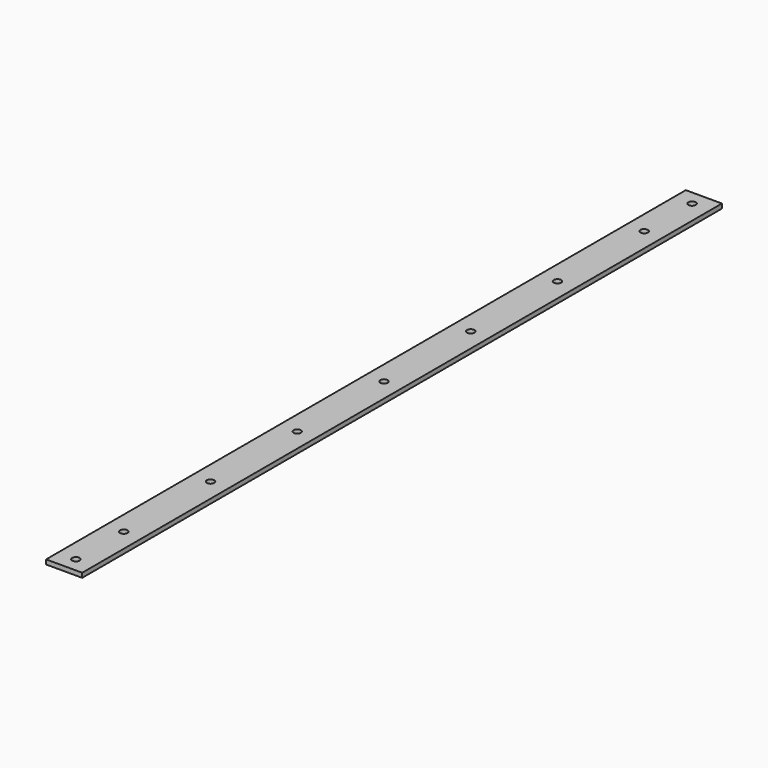
from build123d import *

# Parameters (mm, degrees)
F0_W     = 25.4
F0_H     = 3.175
F1_DEPTH = 561.975
F2_R     = 2.6162
F3_DEPTH = 3.176


with BuildPart() as f1:
    # F0 (on Front) → F1 (new body)
    with BuildSketch(Plane.XZ):
        Rectangle(F0_W, F0_H)
    extrude(amount=F1_DEPTH)

    # F2 (on face) → F3 (cut, through all)
    with BuildSketch(Plane.XY.offset(1.5875)):
        with Locations((0, -551.6626)):
            Circle(F2_R)
        with Locations((0, -509.5875)):
            Circle(F2_R)
        with Locations((0, -433.3875)):
            Circle(F2_R)
        with Locations((0, -357.1875)):
            Circle(F2_R)
        with Locations((0, -280.9875)):
            Circle(F2_R)
        with Locations((0, -204.7875)):
            Circle(F2_R)
        with Locations((0, -128.5875)):
            Circle(F2_R)
        with Locations((0, -52.3875)):
            Circle(F2_R)
        with Locations((0, -10.3124)):
            Circle(F2_R)
    extrude(amount=-F3_DEPTH, mode=Mode.SUBTRACT)


solid = f1.part
